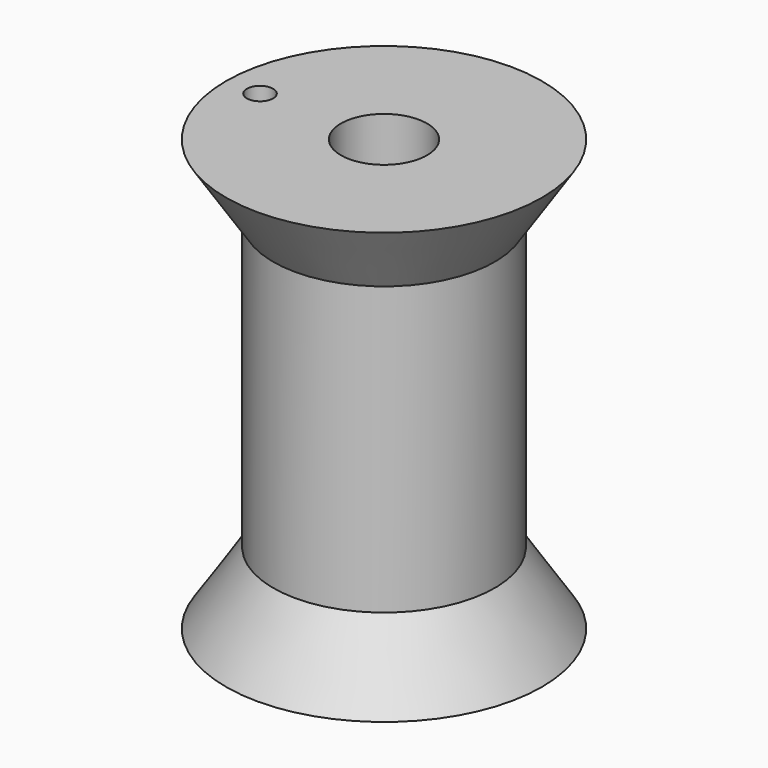
from build123d import *

# Parameters (mm, degrees)
F2_R     = 0.914027
F3_DEPTH = 30


with BuildPart() as f1:
    # F0 (on Right) → F1 (revolve)
    with BuildSketch(Plane.YZ):
        Polygon((-3, -3.458332), (-3, 26.541668), (-11, 26.541668), (-7.718741, 21.541668), (-7.718741, 1.541668), (-11, -3.458332), align=None)
    revolve(axis=Axis((0, 0, -8.260414), (0, 0, -1)))

    # F2 (on face) → F3 (cut)
    with BuildSketch(Plane(origin=(0, 0, -3.458332), x_dir=(1, 0, 0), z_dir=(0, 0, -1))):
        with Locations((-8.635039, 0)):
            Circle(F2_R)
    extrude(amount=-F3_DEPTH, mode=Mode.SUBTRACT)


solid = f1.part
